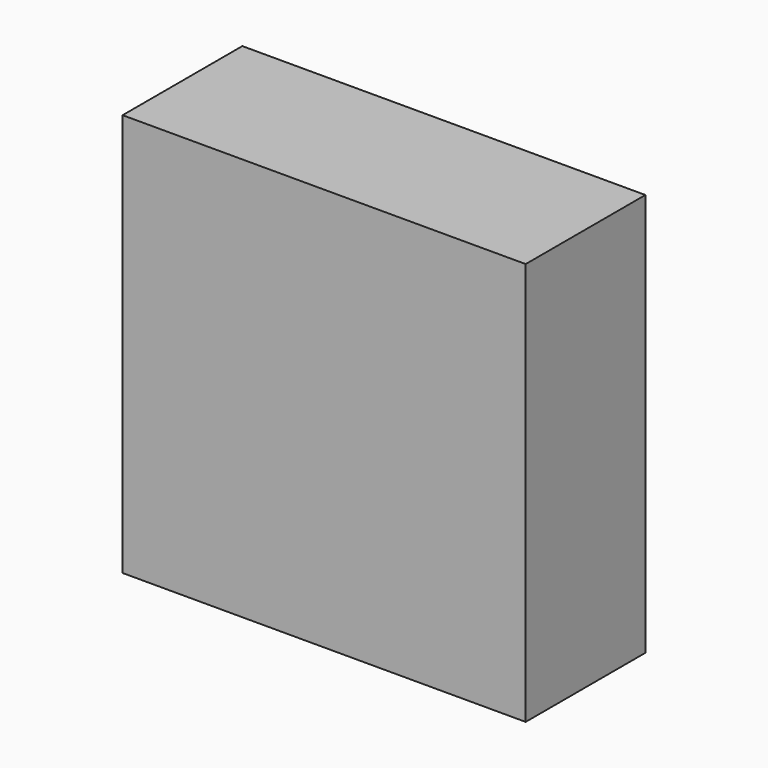
from build123d import *

# Parameters (mm, degrees)
F0_W     = 42.0116
F0_H     = 42.0116
F1_DEPTH = 15.5956
F2_R     = 2.152436
F2_R_2   = 2.4257
F3_DEPTH = 9.525


with BuildPart() as f1:
    # F0 (on Front) → F1 (new body)
    with BuildSketch(Plane.XZ):
        Rectangle(F0_W, F0_H)
    extrude(amount=F1_DEPTH)

    # F2 (on face) → F3 (cut)
    with BuildSketch(Plane(origin=(-21.0058, 0, 0), x_dir=(0, -1, 0), z_dir=(-1, 0, 0))):
        with Locations((10.1854, 12.7)):
            Circle(F2_R)
        with Locations((10.1854, -12.7)):
            Circle(F2_R_2)
    extrude(amount=-F3_DEPTH, mode=Mode.SUBTRACT)


solid = f1.part
